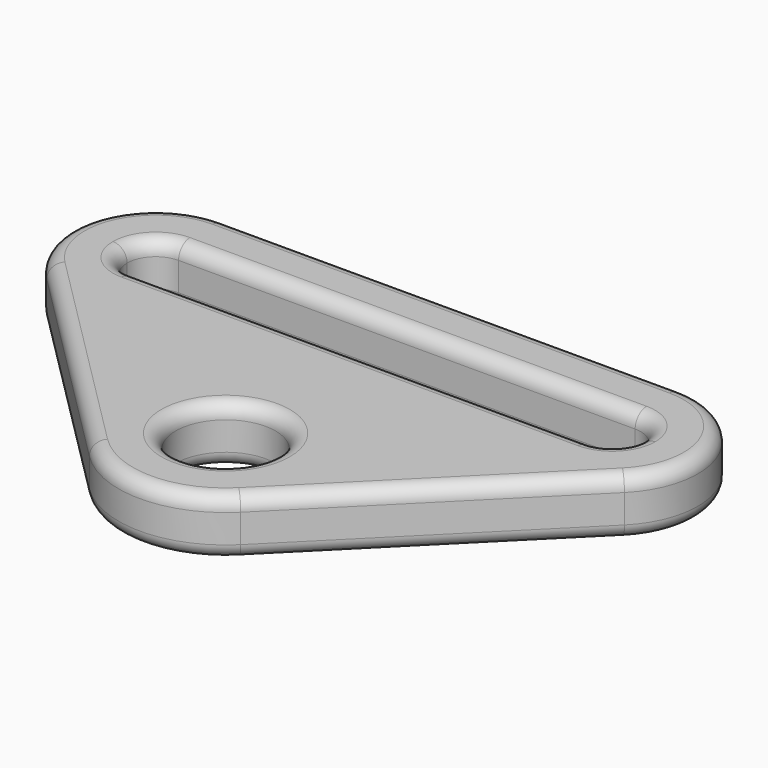
from build123d import *

# Parameters (mm, degrees)
F0_R     = 5.55625
F1_DEPTH = 6.35
F2_R     = 1.5875
F3_R     = 1.5875


with BuildPart() as f1:
    # F0 (on Top) → F1 (new body)
    with BuildSketch(Plane.XY):
        with BuildLine():
            Line((25.4, 9.525), (-25.4, 9.525))
            ThreePointArc((-25.4, 9.525), (-34.199953, 3.64506), (-32.135192, -6.735192))
            Line((-32.135192, -6.735192), (-8.41899, -30.451394))
            ThreePointArc((-8.41899, -30.451394), (0, -33.938654), (8.41899, -30.451394))
            Line((8.41899, -30.451394), (32.135192, -6.735192))
            ThreePointArc((32.135192, -6.735192), (34.199953, 3.64506), (25.4, 9.525))
        make_face()
        with Locations((0, -22.032404)):
            Circle(F0_R, mode=Mode.SUBTRACT)
        with BuildLine():
            ThreePointArc((-28.575, 0), (-27.645064, 2.245064), (-25.4, 3.175))
            Line((-25.4, 3.175), (25.4, 3.175))
            ThreePointArc((25.4, 3.175), (27.645064, 2.245064), (28.575, 0))
            ThreePointArc((28.575, 0), (27.645064, -2.245064), (25.4, -3.175))
            Line((25.4, -3.175), (-25.4, -3.175))
            ThreePointArc((-25.4, -3.175), (-27.645064, -2.245064), (-28.575, 0))
        make_face(mode=Mode.SUBTRACT)
    extrude(amount=F1_DEPTH)

    # F2
    f2_edges = [f1.edges().sort_by_distance(p)[0] for p in [
        (20.277091, -18.593293, 6.35),
        (34.199953, 3.64506, 6.35),
        (0, 9.525, 6.35),
        (-34.199953, 3.64506, 6.35),
        (-20.277091, -18.593293, 6.35),
        (0, -33.938654, 6.35),
        (-5.55625, -22.032404, 6.35),
        (-28.575, 0, 6.35),
        (0, 3.175, 6.35),
        (28.575, 0, 6.35),
        (0, -3.175, 6.35),
    ]]
    fillet(f2_edges, radius=F2_R)

    # F3
    f3_edges = [f1.edges().sort_by_distance(p)[0] for p in [
        (20.277091, -18.593293, 0),
        (34.199953, 3.64506, 0),
        (0, 9.525, 0),
        (-34.199953, 3.64506, 0),
        (-20.277091, -18.593293, 0),
        (0, -33.938654, 0),
        (-5.55625, -22.032404, 0),
        (-28.575, 0, 0),
        (0, 3.175, 0),
        (28.575, 0, 0),
        (0, -3.175, 0),
    ]]
    fillet(f3_edges, radius=F3_R)


solid = f1.part
